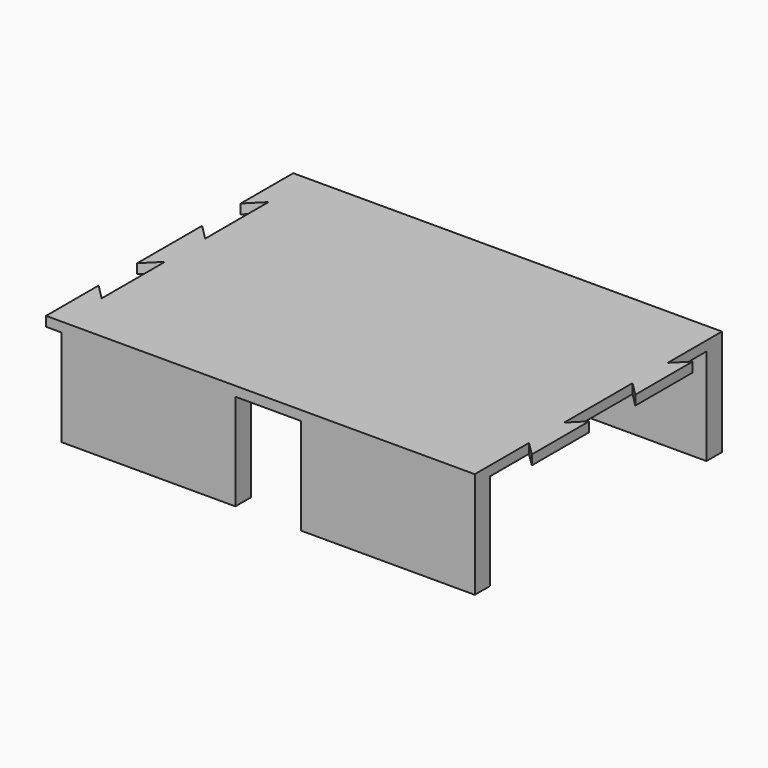
from build123d import *

# Parameters (mm, degrees)
F0_W     = 90
F0_H     = 10
F1_DEPTH = 5
F2_DEPTH = 50


with BuildPart() as f1:
    # F0 (on Top) → F1 (new body)
    with BuildSketch(Plane.XY):
        Polygon((7.121362, 65.179831), (7.121362, 75.179831), (-26.878638, 75.179831), (-26.878638, 65.179831), (-116.878638, 65.179831), (-116.878638, 75.179831), (-124.878638, 75.179831), (-124.878638, 41.179831), (-116.878638, 49.179831), (-116.878638, 8.179831), (-124.878638, 16.179831), (-124.878638, -25.820169), (-116.878638, -17.820169), (-116.878638, -58.820169), (-124.878638, -50.820169), (-124.878638, -84.820169), (-116.878638, -84.820169), (-116.878638, -74.820169), (-26.878638, -74.820169), (-26.878638, -84.820169), (7.121362, -84.820169), (7.121362, -74.820169), (97.121362, -74.820169), (97.121362, -49.6888), (104.321364, -56.888802), (104.321364, -19.751536), (97.121362, -26.951538), (97.121362, 17.311202), (104.321362, 10.111202), (104.321362, 47.24846), (97.121362, 40.04846), (97.121362, 65.179831), align=None)
        with Locations((-71.878638, 70.179831)):
            Rectangle(F0_W, F0_H)
        with Locations((52.121362, 70.179831)):
            Rectangle(F0_W, F0_H)
        with Locations((52.121362, -79.820169)):
            Rectangle(F0_W, F0_H)
        with Locations((-71.878638, -79.820169)):
            Rectangle(F0_W, F0_H)
    extrude(amount=F1_DEPTH)

    # F0 (on Top) → F2 (join)
    with BuildSketch(Plane.XY):
        with Locations((52.121362, 70.179831)):
            Rectangle(F0_W, F0_H)
        with Locations((-71.878638, 70.179831)):
            Rectangle(F0_W, F0_H)
        with Locations((-71.878638, -79.820169)):
            Rectangle(F0_W, F0_H)
        with Locations((52.121362, -79.820169)):
            Rectangle(F0_W, F0_H)
    extrude(amount=-F2_DEPTH)


solid = f1.part
